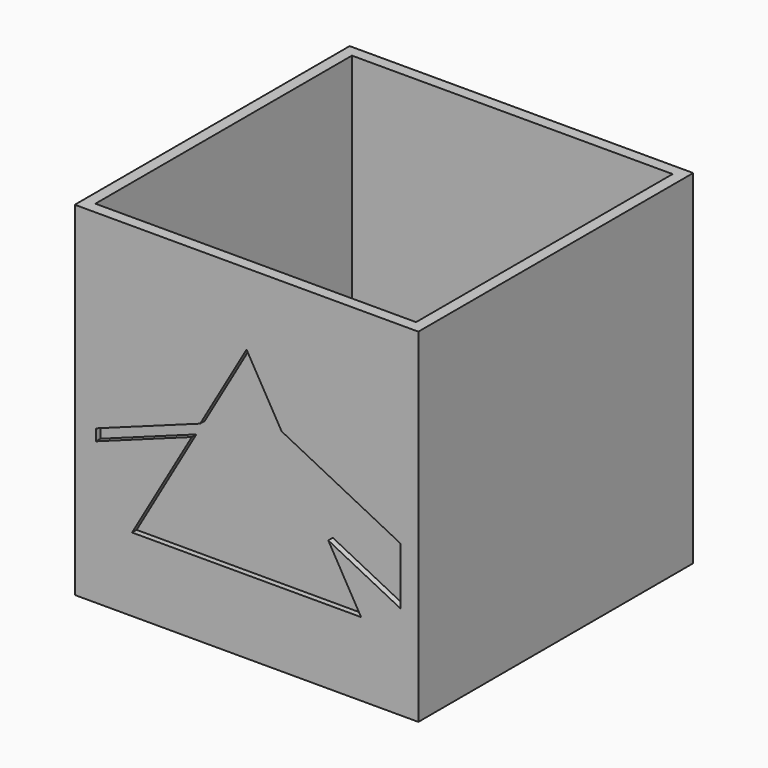
from build123d import *

# Parameters (mm, degrees)
F0_W     = 76.2
F0_H     = 76.2
F1_DEPTH = 2.54
F2_W     = 76.2
F2_H     = 76.2
F2_W_2   = 71.12
F2_H_2   = 71.12
F3_DEPTH = 73.66
F5_DEPTH = 1.27


with BuildPart() as f1:
    # F0 (on Top) → F1 (new body)
    with BuildSketch(Plane.XY):
        Rectangle(F0_W, F0_H)
    extrude(amount=F1_DEPTH)

    # F2 (on face) → F3 (join)
    with BuildSketch(Plane.XY.offset(2.54)):
        Rectangle(F2_W, F2_H)
        Rectangle(F2_W_2, F2_H_2, mode=Mode.SUBTRACT)
    extrude(amount=F3_DEPTH)

    # F4 (on face) → F5 (cut)
    with BuildSketch(Plane.XZ.offset(38.1)):
        Polygon((-12.148399, 39.283356), (-25.4, 16.330909), (25.4, 16.330909), (18.117015, 28.945409), (3.810367, 36.175158), (3.810367, 48.875158), (7.764111, 46.877166), (0, 60.325), (-10.290568, 42.501213), (-5.152611, 44.375874), (-5.152611, 41.835874), align=None)
        Polygon((-33.413898, 31.524319), (-12.148399, 39.283356), (-10.290568, 42.501213), (-33.413898, 34.064319), align=None)
        Polygon((-10.290568, 42.501213), (-12.148399, 39.283356), (-5.152611, 41.835874), (-5.152611, 44.375874), align=None)
        Polygon((3.810367, 36.175158), (18.117015, 28.945409), (7.764111, 46.877166), (3.810367, 48.875158), align=None)
        Polygon((7.764111, 46.877166), (18.117015, 28.945409), (34.126167, 20.855314), (34.126167, 33.555314), align=None)
    extrude(amount=-F5_DEPTH, mode=Mode.SUBTRACT)


solid = f1.part
